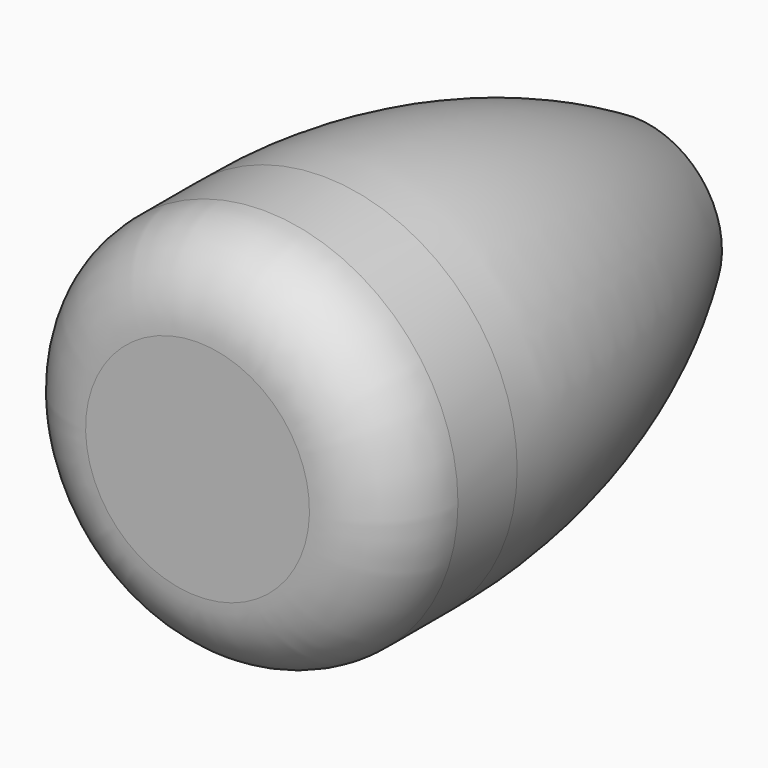
from build123d import *


with BuildPart() as f1:
    # F0 (on Right) → F1 (revolve)
    with BuildSketch(Plane.YZ):
        with BuildLine():
            Line((0, 12.059906), (0, 0))
            Line((0, 0), (58.7248, 0))
            Line((58.7248, 0), (58.7248, 9.525))
            ThreePointArc((58.7248, 9.525), (38.59252, 18.163372), (16.863152, 20.949906))
            Line((16.863152, 20.949906), (8.89, 20.949906))
            ThreePointArc((8.89, 20.949906), (2.603821, 18.346085), (0, 12.059906))
        make_face()
    revolve(axis=Axis((0, 29.3624, 0), (0, 1, 0)))


solid = f1.part
